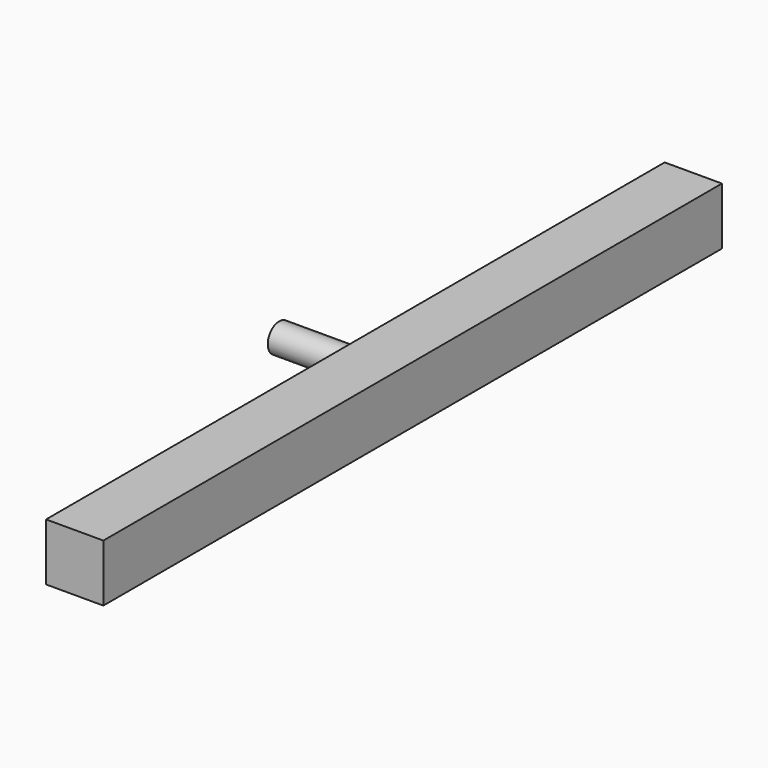
from build123d import *

# Parameters (mm, degrees)
F0_W     = 50.8
F0_H     = 50.8
F1_DEPTH = 685.8
F2_R     = 12.7
F3_DEPTH = 76.2


with BuildPart() as f1:
    # F0 (on Front) → F1 (new body)
    with BuildSketch(Plane.XZ):
        with Locations((25.4, 25.4)):
            Rectangle(F0_W, F0_H)
    extrude(amount=F1_DEPTH)

    # F2 (on face) → F3 (join)
    with BuildSketch(Plane(origin=(0, 0, 0), x_dir=(0, -1, 0), z_dir=(-1, 0, 0))):
        with Locations((332.073301, 24.248907)):
            Circle(F2_R)
    extrude(amount=F3_DEPTH)


solid = f1.part
